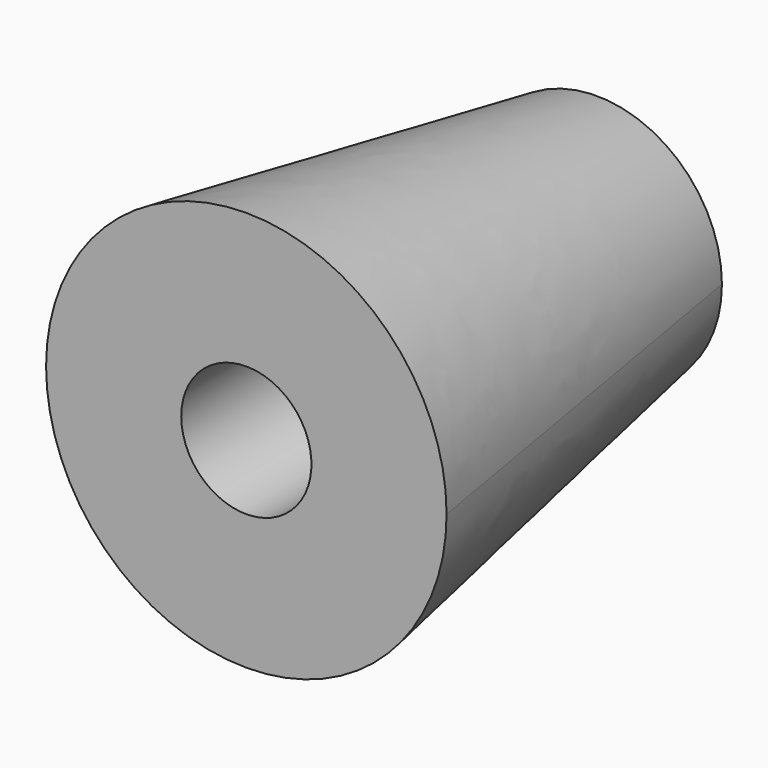
from build123d import *

# Parameters (mm, degrees)
F2_R = 8
F4_D = 5.2


with BuildPart() as f3:
    # F2 (on offset) → F3 section 0
    with BuildSketch(Plane.XZ.offset(17.5)):
        Circle(F2_R)
    # F0 (on Front) → F3 section 1
    with BuildSketch(Plane.XZ):
        with BuildLine():
            ThreePointArc((0, -5), (3.535534, -3.535534), (5, 0))
            ThreePointArc((5, 0), (-3.535534, 3.535534), (0, -5))
        make_face()
    loft()

    # F4 (through all)
    with Locations(Plane(origin=(0, 0, 0), x_dir=(1, 0, 0), z_dir=(0, 1, 0))):
        with Locations((0, 0)):
            Hole(F4_D / 2)


solid = f3.part
